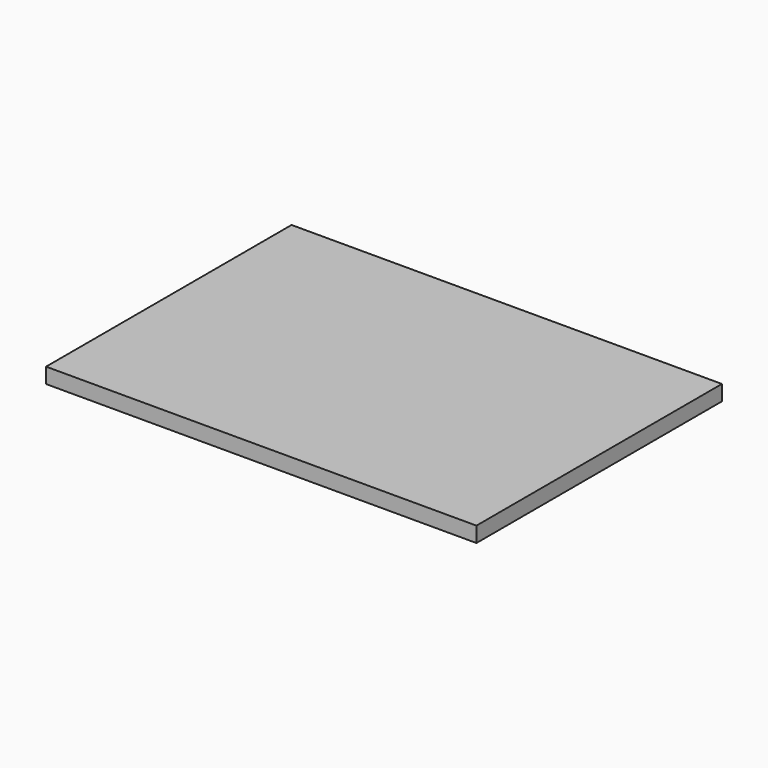
from build123d import *

# Parameters (mm, degrees)
F1_DEPTH = 3.175


with BuildPart() as f1:
    # F0 (on Top) → F1 (new body)
    with BuildSketch(Plane.XY):
        with BuildLine():
            Line((38.3172365069, 17.863549906), (-25.1827634931, 17.863549906))
            ThreePointArc((-25.1827634931, 17.863549906), (-27.0426354325, 13.3734218455), (-31.5327634931, 11.513549906))
            Line((-31.5327634931, 11.513549906), (-31.5327634931, -26.586450094))
            ThreePointArc((-31.5327634931, -26.586450094), (-27.0426354325, -28.4463220335), (-25.1827634931, -32.936450094))
            Line((-25.1827634931, -32.936450094), (38.3172365069, -32.936450094))
            ThreePointArc((38.3172365069, -32.936450094), (40.1771084464, -28.4463220335), (44.6672365069, -26.586450094))
            Line((44.6672365069, -26.586450094), (44.6672365069, 11.513549906))
            ThreePointArc((44.6672365069, 11.513549906), (40.1771084464, 13.3734218455), (38.3172365069, 17.863549906))
        make_face()
        with BuildLine():
            Line((-31.5327634931, 11.513549906), (-31.5327634931, 17.863549906))
            Line((-31.5327634931, 17.863549906), (-25.1827634931, 17.863549906))
            ThreePointArc((-25.1827634931, 17.863549906), (-27.0426354325, 22.3536779666), (-31.5327634931, 24.213549906))
            ThreePointArc((-31.5327634931, 24.213549906), (-37.8827634931, 17.863549906), (-31.5327634931, 11.513549906))
        make_face()
        with BuildLine():
            Line((-31.5327634931, -32.936450094), (-31.5327634931, -26.586450094))
            ThreePointArc((-31.5327634931, -26.586450094), (-37.8827634931, -32.936450094), (-31.5327634931, -39.286450094))
            ThreePointArc((-31.5327634931, -39.286450094), (-27.0426354325, -37.4265781545), (-25.1827634931, -32.936450094))
            Line((-25.1827634931, -32.936450094), (-31.5327634931, -32.936450094))
        make_face()
        with BuildLine():
            ThreePointArc((51.0172365069, -32.936450094), (49.1573645675, -28.4463220335), (44.6672365069, -26.586450094))
            Line((44.6672365069, -26.586450094), (44.6672365069, -32.936450094))
            Line((44.6672365069, -32.936450094), (38.3172365069, -32.936450094))
            ThreePointArc((38.3172365069, -32.936450094), (40.1771084464, -37.4265781545), (44.6672365069, -39.286450094))
            ThreePointArc((44.6672365069, -39.286450094), (49.1573645675, -37.4265781545), (51.0172365069, -32.936450094))
        make_face()
        with BuildLine():
            ThreePointArc((44.6672365069, 24.213549906), (40.1771084464, 22.3536779665), (38.3172365069, 17.863549906))
            Line((38.3172365069, 17.863549906), (44.6672365069, 17.863549906))
            Line((44.6672365069, 17.863549906), (44.6672365069, 11.513549906))
            ThreePointArc((44.6672365069, 11.513549906), (49.1573645675, 13.3734218455), (51.0172365069, 17.863549906))
            ThreePointArc((51.0172365069, 17.863549906), (49.1573645675, 22.3536779666), (44.6672365069, 24.213549906))
        make_face()
        with BuildLine():
            ThreePointArc((51.0172365069, 17.863549906), (49.1573645675, 13.3734218455), (44.6672365069, 11.513549906))
            Line((44.6672365069, 11.513549906), (44.6672365069, -26.586450094))
            ThreePointArc((44.6672365069, -26.586450094), (49.1573645675, -28.4463220335), (51.0172365069, -32.936450094))
            Line((51.0172365069, -32.936450094), (51.0172365069, 17.863549906))
        make_face()
        with BuildLine():
            Line((38.3172365069, -32.936450094), (-25.1827634931, -32.936450094))
            ThreePointArc((-25.1827634931, -32.936450094), (-27.0426354325, -37.4265781545), (-31.5327634931, -39.286450094))
            Line((-31.5327634931, -39.286450094), (44.6672365069, -39.286450094))
            ThreePointArc((44.6672365069, -39.286450094), (40.1771084464, -37.4265781545), (38.3172365069, -32.936450094))
        make_face()
        with BuildLine():
            Line((-31.5327634931, -26.586450094), (-31.5327634931, 11.513549906))
            ThreePointArc((-31.5327634931, 11.513549906), (-37.8827634931, 17.863549906), (-31.5327634931, 24.213549906))
            Line((-31.5327634931, 24.213549906), (-38.0498692393, 24.213549906))
            Line((-38.0498692393, 24.213549906), (-38.0498692393, -39.286450094))
            Line((-38.0498692393, -39.286450094), (-31.5327634931, -39.286450094))
            ThreePointArc((-31.5327634931, -39.286450094), (-37.8827634931, -32.936450094), (-31.5327634931, -26.586450094))
        make_face()
        with BuildLine():
            ThreePointArc((-31.5327634931, 24.213549906), (-27.0426354325, 22.3536779666), (-25.1827634931, 17.863549906))
            Line((-25.1827634931, 17.863549906), (38.3172365069, 17.863549906))
            ThreePointArc((38.3172365069, 17.863549906), (40.1771084464, 22.3536779665), (44.6672365069, 24.213549906))
            Line((44.6672365069, 24.213549906), (-31.5327634931, 24.213549906))
        make_face()
        with BuildLine():
            Line((44.6672365069, 17.863549906), (38.3172365069, 17.863549906))
            ThreePointArc((38.3172365069, 17.863549906), (40.1771084464, 13.3734218455), (44.6672365069, 11.513549906))
            Line((44.6672365069, 11.513549906), (44.6672365069, 17.863549906))
        make_face()
        with BuildLine():
            Line((44.6672365069, -32.936450094), (44.6672365069, -26.586450094))
            ThreePointArc((44.6672365069, -26.586450094), (40.1771084464, -28.4463220335), (38.3172365069, -32.936450094))
            Line((38.3172365069, -32.936450094), (44.6672365069, -32.936450094))
        make_face()
        with BuildLine():
            ThreePointArc((-25.1827634931, -32.936450094), (-27.0426354325, -28.4463220335), (-31.5327634931, -26.586450094))
            Line((-31.5327634931, -26.586450094), (-31.5327634931, -32.936450094))
            Line((-31.5327634931, -32.936450094), (-25.1827634931, -32.936450094))
        make_face()
        with BuildLine():
            Line((-25.1827634931, 17.863549906), (-31.5327634931, 17.863549906))
            Line((-31.5327634931, 17.863549906), (-31.5327634931, 11.513549906))
            ThreePointArc((-31.5327634931, 11.513549906), (-27.0426354325, 13.3734218455), (-25.1827634931, 17.863549906))
        make_face()
        with BuildLine():
            Line((51.0172365069, 24.213549906), (44.6672365069, 24.213549906))
            ThreePointArc((44.6672365069, 24.213549906), (49.1573645675, 22.3536779666), (51.0172365069, 17.863549906))
            Line((51.0172365069, 17.863549906), (51.0172365069, 24.213549906))
        make_face()
        with BuildLine():
            ThreePointArc((51.0172365069, -32.936450094), (49.1573645675, -37.4265781545), (44.6672365069, -39.286450094))
            Line((44.6672365069, -39.286450094), (51.0172365069, -39.286450094))
            Line((51.0172365069, -39.286450094), (51.0172365069, -32.936450094))
        make_face()
    extrude(amount=F1_DEPTH)


solid = f1.part
